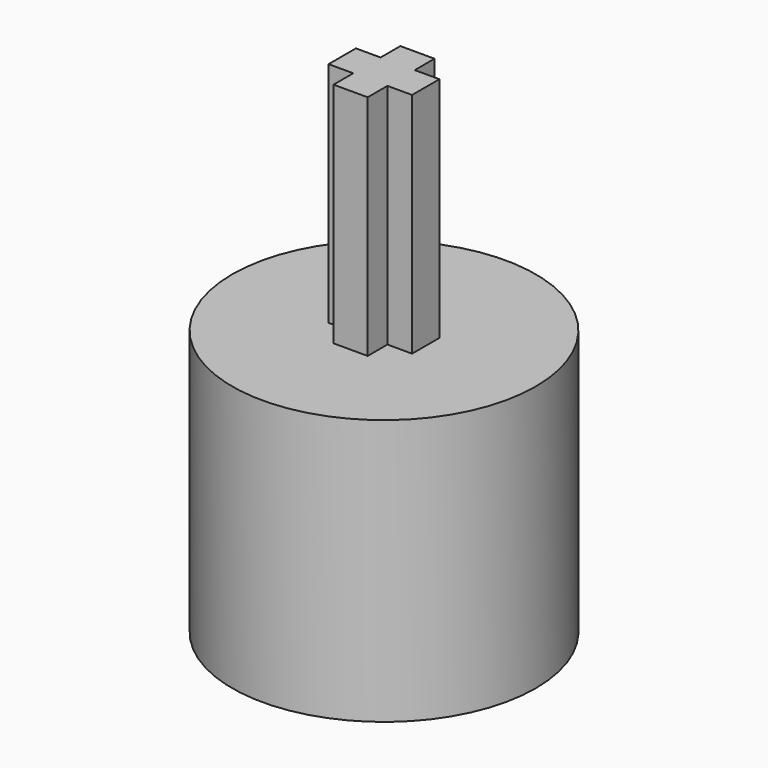
from build123d import *

# Parameters (mm, degrees)
SKETCH_R     = 8
PAD_DEPTH    = 14
PAD001_DEPTH = 12
POCKET_DEPTH = 12


with BuildPart() as part:
    # Sketch → Pad (new body)
    with BuildSketch(Plane.XY):
        Circle(SKETCH_R)
    extrude(amount=PAD_DEPTH)

    # Sketch001 → Pad001 (new body)
    with BuildSketch(Plane.XY.offset(14)):
        Polygon((-0.9, 2.2), (0.9, 2.2), (0.9, 0.9), (2.2, 0.9), (2.2, -0.9), (0.9, -0.9), (0.9, -2.2), (-0.9, -2.2), (-0.9, -0.9), (-2.2, -0.9), (-2.2, 0.9), (-0.9, 0.9), align=None)
    extrude(amount=PAD001_DEPTH)

    # Sketch002 → Pocket (cut)
    with BuildSketch(Plane(origin=(0, 0, 0), x_dir=(1, 0, 0), z_dir=(0, 0, -1))):
        with BuildLine():
            ThreePointArc((-1.8, 2.523886), (0, -3.1), (1.8, 2.523886))
            Line((-1.8, 2.523886), (1.8, 2.523886))
        make_face()
    extrude(amount=-POCKET_DEPTH, mode=Mode.SUBTRACT)


solid = part.part
